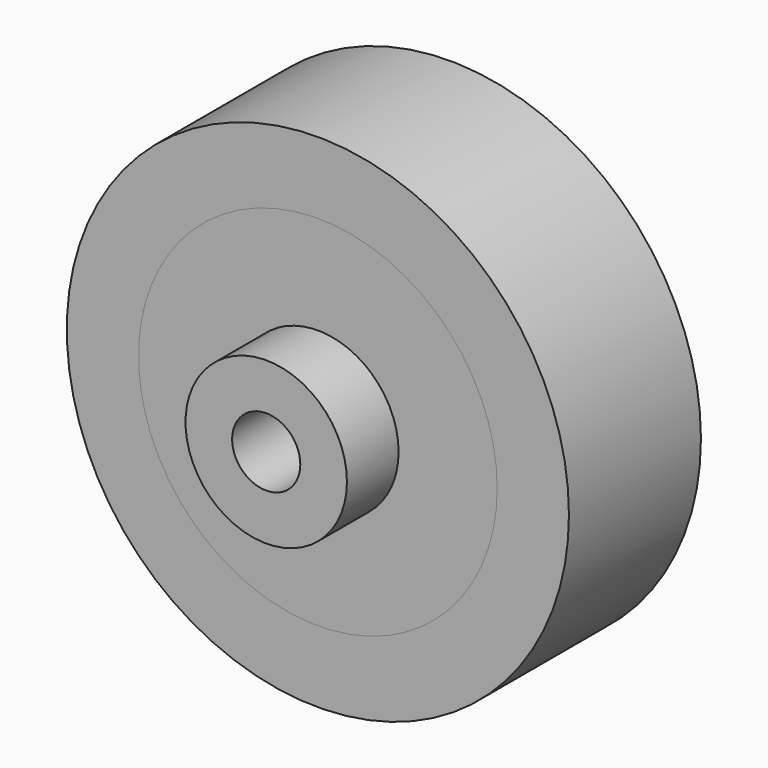
from build123d import *

# Parameters (mm, degrees)
F0_R          = 7
F0_R_2        = 5
F1_DEPTH      = 4.6
F0_R_3        = 4
F2_DEPTH      = 4.5
F0_R_4        = 2.25
F3_DEPTH      = 1
F0_R_5        = 0.95
F4_DEPTH      = 4
F4_DEPTH_BACK = 1.8
F6_DEPTH      = 2.4
F5_R          = 0.95
F7_DEPTH      = 1
F8_R          = 0.95
F9_DEPTH      = 0.6


with BuildPart() as f1:
    # F0 (on Front) → F1 (new body)
    with BuildSketch(Plane.XZ):
        Circle(F0_R)
        Circle(F0_R_2, mode=Mode.SUBTRACT)
    extrude(amount=-F1_DEPTH)


with BuildPart() as f2:
    # F0 (on Front) → F2 (new body)
    with BuildSketch(Plane.XZ):
        Circle(F0_R_2)
        Circle(F0_R_3, mode=Mode.SUBTRACT)
    extrude(amount=-F2_DEPTH)

    # F0 (on Front) → F3 (join)
    with BuildSketch(Plane.XZ):
        Circle(F0_R_3)
        Circle(F0_R_4, mode=Mode.SUBTRACT)
    extrude(amount=-F3_DEPTH)

    # F0 (on Front) → F4 (join, two sides)
    with BuildSketch(Plane.XZ) as f4_sk:
        Circle(F0_R_4)
        Circle(F0_R_5, mode=Mode.SUBTRACT)
    extrude(amount=-F4_DEPTH)
    extrude(f4_sk.sketch, amount=F4_DEPTH_BACK)

    # F5 (on face) → F6, piece 2 (join)
    with BuildSketch(Plane(origin=(0, 1, 0), x_dir=(-1, 0, 0), z_dir=(0, 1, 0))):
        with BuildLine():
            ThreePointArc((1.9010607717, 3.51937039), (1.7882791688, 3.5779963128), (1.673691774, 3.6330091998))
            Line((1.673691774, 3.6330091998), (0.8906165084, 2.066228989))
            ThreePointArc((0.8906165084, 2.066228989), (1.0059070324, 2.012622926), (1.1179855061, 1.9525901793))
            Line((1.1179855061, 1.9525901793), (1.9010607717, 3.51937039))
        make_face()
        with BuildLine():
            Line((1.7775915791, 3.840892357), (1.673691774, 3.6330091998))
            ThreePointArc((1.673691774, 3.6330091998), (1.7882791688, 3.5779963128), (1.9010607717, 3.51937039))
            Line((1.9010607717, 3.51937039), (2.0049605768, 3.7272535472))
            Line((2.0049605768, 3.7272535472), (1.7775915791, 3.840892357))
        make_face()
        with BuildLine():
            ThreePointArc((3.9345802285, -0.7204709748), (3.9554853624, -0.59509289), (3.9723962747, -0.4691138844))
            Line((3.9723962747, -0.4691138844), (2.2403161807, -0.2085267619))
            ThreePointArc((2.2403161807, -0.2085267619), (2.2249605164, -0.3347397506), (2.2025001345, -0.4598838523))
            Line((2.2025001345, -0.4598838523), (3.9345802285, -0.7204709748))
        make_face()
        with BuildLine():
            Line((4.2022117115, -0.5036890427), (3.9723962747, -0.4691138844))
            ThreePointArc((3.9723962747, -0.4691138844), (3.9554853624, -0.59509289), (3.9345802285, -0.7204709748))
            Line((3.9345802285, -0.7204709748), (4.1643956653, -0.7550461331))
            Line((4.1643956653, -0.7550461331), (4.2022117115, -0.5036890427))
        make_face()
        with BuildLine():
            ThreePointArc((2.2025001345, -0.4598838523), (2.2249605164, -0.3347397506), (2.2403161807, -0.2085267619))
            Line((2.2403161807, -0.2085267619), (2.0992291659, -0.1873005731))
            Line((2.0992291659, -0.1873005731), (2.0614131197, -0.4386576634))
            Line((2.0614131197, -0.4386576634), (2.2025001345, -0.4598838523))
        make_face()
        with BuildLine():
            ThreePointArc((1.1179855061, 1.9525901793), (1.0059070324, 2.012622926), (0.8906165084, 2.066228989))
            Line((0.8906165084, 2.066228989), (0.8268309179, 1.9386065173))
            Line((0.8268309179, 1.9386065173), (1.0541999156, 1.8249677076))
            Line((1.0541999156, 1.8249677076), (1.1179855061, 1.9525901793))
        make_face()
        with BuildLine():
            Line((0.2432344372, -2.2368140308), (0.5306435409, -3.9646459404))
            ThreePointArc((0.5306435409, -3.9646459404), (0.6563452272, -3.9457839453), (0.7813841406, -3.922937525))
            Line((0.7813841406, -3.922937525), (0.4939750369, -2.1951056154))
            ThreePointArc((0.4939750369, -2.1951056154), (0.3691941903, -2.2195034692), (0.2432344372, -2.2368140308))
        make_face()
        with BuildLine():
            ThreePointArc((0.7813841406, -3.922937525), (0.6563452272, -3.9457839453), (0.5306435409, -3.9646459404))
            Line((0.5306435409, -3.9646459404), (0.5687774869, -4.1938977206))
            Line((0.5687774869, -4.1938977206), (0.8195180866, -4.1521893052))
            Line((0.8195180866, -4.1521893052), (0.7813841406, -3.922937525))
        make_face()
        with BuildLine():
            Line((0.2198234572, -2.096073053), (0.2432344372, -2.2368140308))
            ThreePointArc((0.2432344372, -2.2368140308), (0.3691941903, -2.2195034692), (0.4939750369, -2.1951056154))
            Line((0.4939750369, -2.1951056154), (0.4705640568, -2.0543646376))
            Line((0.4705640568, -2.0543646376), (0.2198234572, -2.096073053))
        make_face()
        with BuildLine():
            Line((-1.5115470928, 1.6666509492), (-2.7596600569, 2.8955614948))
            ThreePointArc((-2.7596600569, 2.8955614948), (-2.8502680547, 2.8064162229), (-2.9379978717, 2.7144370514))
            Line((-2.9379978717, 2.7144370514), (-1.6898849076, 1.4855265057))
            ThreePointArc((-1.6898849076, 1.4855265057), (-1.6032757808, 1.5786091254), (-1.5115470928, 1.6666509492))
        make_face()
        with BuildLine():
            Line((-1.9255547516, -0.8567867262), (-2.052172985, -0.9225432453))
            ThreePointArc((-2.052172985, -0.9225432453), (-1.9967859583, -1.0369888315), (-1.9350228183, -1.1481231173))
            Line((-1.9350228183, -1.1481231173), (-1.8084045849, -1.0823665983))
            Line((-1.8084045849, -1.0823665983), (-1.9255547516, -0.8567867262))
        make_face()
        with BuildLine():
            Line((-2.052172985, -0.9225432453), (-3.6066244843, -1.7298149697))
            ThreePointArc((-3.6066244843, -1.7298149697), (-3.5498417037, -1.8435357005), (-3.4894743176, -1.9553948417))
            Line((-3.4894743176, -1.9553948417), (-1.9350228183, -1.1481231173))
            ThreePointArc((-1.9350228183, -1.1481231173), (-1.9967859583, -1.0369888315), (-2.052172985, -0.9225432453))
        make_face()
    extrude(amount=F6_DEPTH)



with BuildPart() as f6:
    # F5 (on face) → F6 (new body)
    with BuildSketch(Plane(origin=(0, 1, 0), x_dir=(-1, 0, 0), z_dir=(0, 1, 0))):
        Polygon((-1.4098817409, 1.5665497351), (-1.5105959334, 1.6657144235), (-1.6888917169, 1.4845485954), (-1.5882195557, 1.3854252916), align=None)
    extrude(amount=F6_DEPTH)


with BuildPart() as f2_1:
    add(f2.part)

    add(f6.part)  # F7 merges F6
    # F5 (on face) → F7 (join)
    with BuildSketch(Plane(origin=(0, 1, 0), x_dir=(-1, 0, 0), z_dir=(0, 1, 0))):
        with BuildLine():
            Line((-1.4954074808, 1.681147366), (-1.5105959334, 1.6657144235))
            Line((-1.5105959334, 1.6657144235), (-1.4098817409, 1.5665497351))
            Line((-1.4098817409, 1.5665497351), (-1.5882195557, 1.3854252916))
            Line((-1.5882195557, 1.3854252916), (-1.6888917169, 1.4845485954))
            Line((-1.6888917169, 1.4845485954), (-1.7048110393, 1.4683730181))
            ThreePointArc((-1.7048110393, 1.4683730181), (-2.226623539, 0.3234928369), (-2.052172985, -0.9225432453))
            Line((-2.052172985, -0.9225432453), (-1.9255547516, -0.8567867262))
            Line((-1.9255547516, -0.8567867262), (-1.8084045849, -1.0823665983))
            Line((-1.8084045849, -1.0823665983), (-1.9350228183, -1.1481231173))
            ThreePointArc((-1.9350228183, -1.1481231173), (-1.0059070324, -2.012622926), (0.2432344372, -2.2368140308))
            Line((0.2432344372, -2.2368140308), (0.2198234572, -2.096073053))
            Line((0.2198234572, -2.096073053), (0.4705640568, -2.0543646376))
            Line((0.4705640568, -2.0543646376), (0.4939750369, -2.1951056154))
            ThreePointArc((0.4939750369, -2.1951056154), (1.6032757808, -1.5786091254), (2.2025001345, -0.4598838523))
            Line((2.2025001345, -0.4598838523), (2.0614131197, -0.4386576634))
            Line((2.0614131197, -0.4386576634), (2.0992291659, -0.1873005731))
            Line((2.0992291659, -0.1873005731), (2.2403161807, -0.2085267619))
            ThreePointArc((2.2403161807, -0.2085267619), (2.2475777413, -0.1043757477), (2.25, 0))
            ThreePointArc((2.25, 0), (1.9465311953, 1.1285017969), (1.1179855061, 1.9525901793))
            Line((1.1179855061, 1.9525901793), (1.0541999156, 1.8249677076))
            Line((1.0541999156, 1.8249677076), (0.8268309179, 1.9386065173))
            Line((0.8268309179, 1.9386065173), (0.8906165084, 2.066228989))
            ThreePointArc((0.8906165084, 2.066228989), (-0.3584898802, 2.221257528), (-1.4954074808, 1.681147366))
        make_face()
        Circle(F5_R, mode=Mode.SUBTRACT)
    extrude(amount=-F7_DEPTH)

    # F8 (on face) → F9 (join)
    with BuildSketch(Plane(origin=(0, 4, 0), x_dir=(-1, 0, 0), z_dir=(0, 1, 0))):
        Circle(F8_R)
    extrude(amount=-F9_DEPTH)


solid = Compound([f1.part, f2_1.part])
